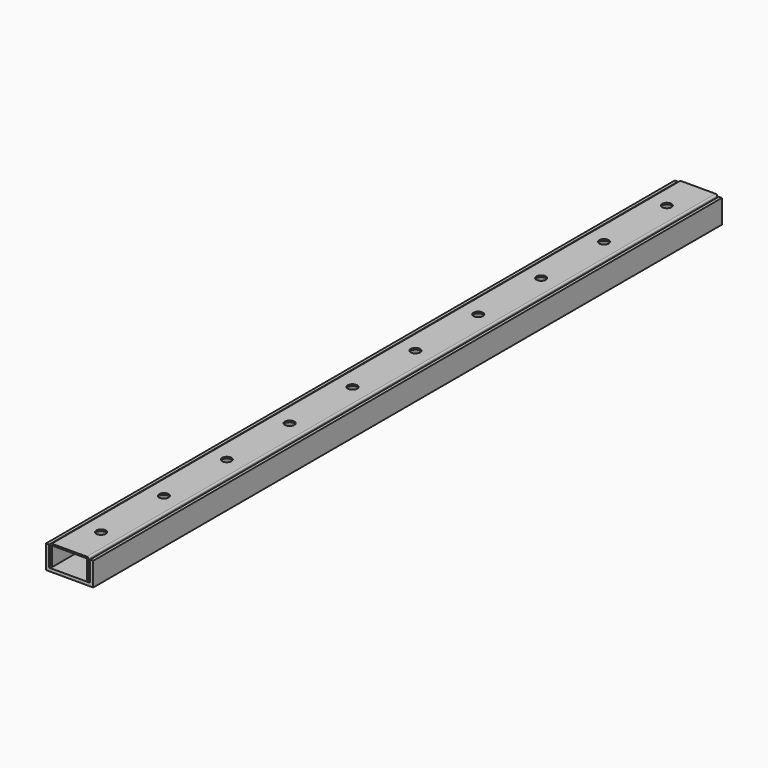
from build123d import *

# Parameters (mm, degrees)
F0_W     = 30
F0_H     = 15
F2_DEPTH = 250
F1_W     = 26
F1_H     = 13
F3_DEPTH = 300
F6_DEPTH = 250
F5_W     = 22.0808668435
F5_H     = 12
F7_DEPTH = 300
F9_D     = 6


with BuildPart() as f2:
    # F0 (on Front) → F2 (new body, symmetric)
    with BuildSketch(Plane.XZ):
        Rectangle(F0_W, F0_H)
    extrude(amount=F2_DEPTH, both=True)

    # F1 (on face) → F3 (cut, symmetric)
    with BuildSketch(Plane.XZ):
        with Locations((0, 1)):
            Rectangle(F1_W, F1_H)
    extrude(amount=F3_DEPTH, both=True, mode=Mode.SUBTRACT)


with BuildPart() as f6:
    # F4 (on Front) → F6 (new body, symmetric)
    with BuildSketch(Plane.XZ):
        with BuildLine():
            Line((-12.0808668435, 7.5), (-12.0808668435, -4.5))
            Line((-12.0808668435, -4.5), (12, -4.5))
            Line((12, -4.5), (12, 7.5))
            ThreePointArc((12, 7.5), (11.7071067812, 8.2071067812), (11, 8.5))
            Line((11, 8.5), (-11.0808668435, 8.5))
            ThreePointArc((-11.0808668435, 8.5), (-11.7879736246, 8.2071067812), (-12.0808668435, 7.5))
        make_face()
    extrude(amount=F6_DEPTH, both=True)

    # F5 (on face) → F7 (cut, symmetric)
    with BuildSketch(Plane.XZ):
        with Locations((-0.0404334217, 1.5)):
            Rectangle(F5_W, F5_H)
    extrude(amount=F7_DEPTH, both=True, mode=Mode.SUBTRACT)

    # F9 (through all)
    with Locations(Plane.XY.offset(8.5)):
        with Locations((-0.0404334217, -225), (-0.0404334217, -175), (-0.0404334217, -125), (-0.0404334217, -75), (-0.0404334217, -25), (-0.0404334217, 25), (-0.0404334217, 75), (-0.0404334217, 125), (-0.0404334217, 175), (-0.0404334217, 225)):
            Hole(F9_D / 2)


solid = Compound([f2.part, f6.part])
